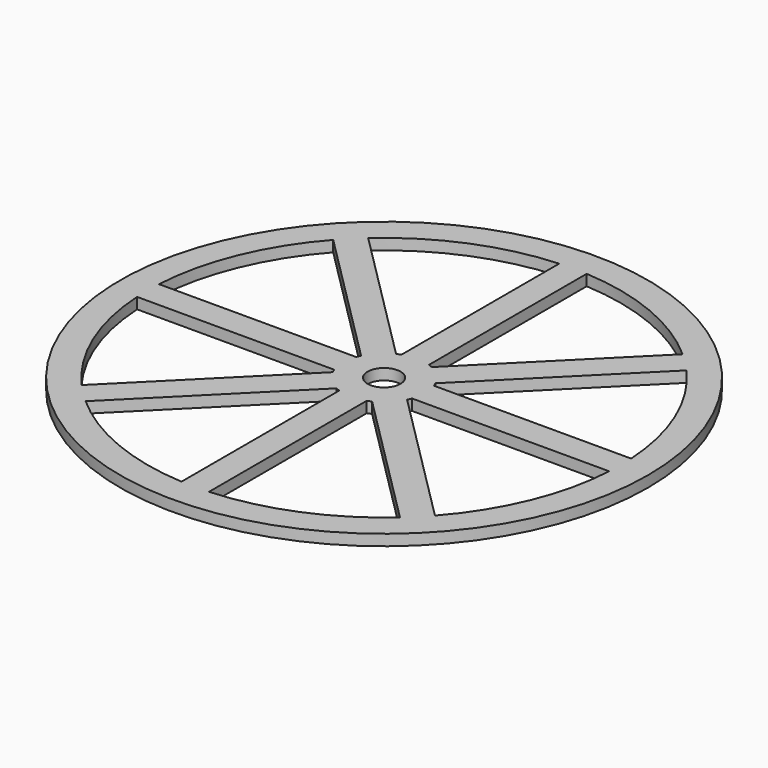
from build123d import *

# Parameters (mm, degrees)
F0_R     = 48
F0_R_2   = 3
F1_DEPTH = 2


with BuildPart() as f1:
    # F0 (on Top) → F1 (new body)
    with BuildSketch(Plane.XY):
        Circle(F0_R)
        with BuildLine():
            Line((-28.586393, -32.121926), (-3.232233, -6.767767))
            ThreePointArc((-3.232233, -6.767767), (-2.870126, -6.929096), (-2.5, -7.071068))
            Line((-2.5, -7.071068), (-2.5, -42.927264))
            ThreePointArc((-2.5, -42.927264), (-16.455388, -39.72682), (-28.586393, -32.121926))
        make_face(mode=Mode.SUBTRACT)
        with BuildLine():
            ThreePointArc((-32.121926, -28.586393), (-39.72682, -16.455388), (-42.927264, -2.5))
            Line((-42.927264, -2.5), (-7.071068, -2.5))
            ThreePointArc((-7.071068, -2.5), (-6.929096, -2.870126), (-6.767767, -3.232233))
            Line((-6.767767, -3.232233), (-32.121926, -28.586393))
        make_face(mode=Mode.SUBTRACT)
        with BuildLine():
            Line((2.5, -42.927264), (2.5, -7.071068))
            ThreePointArc((2.5, -7.071068), (2.870126, -6.929096), (3.232233, -6.767767))
            Line((3.232233, -6.767767), (28.586393, -32.121926))
            ThreePointArc((28.586393, -32.121926), (16.455388, -39.72682), (2.5, -42.927264))
        make_face(mode=Mode.SUBTRACT)
        with BuildLine():
            Line((32.121926, -28.586393), (6.767767, -3.232233))
            ThreePointArc((6.767767, -3.232233), (6.929096, -2.870126), (7.071068, -2.5))
            Line((7.071068, -2.5), (42.927264, -2.5))
            ThreePointArc((42.927264, -2.5), (39.72682, -16.455388), (32.121926, -28.586393))
        make_face(mode=Mode.SUBTRACT)
        with BuildLine():
            ThreePointArc((-42.927264, 2.5), (-39.72682, 16.455388), (-32.121926, 28.586393))
            Line((-32.121926, 28.586393), (-6.767767, 3.232233))
            ThreePointArc((-6.767767, 3.232233), (-6.929096, 2.870126), (-7.071068, 2.5))
            Line((-7.071068, 2.5), (-42.927264, 2.5))
        make_face(mode=Mode.SUBTRACT)
        with BuildLine():
            ThreePointArc((-28.586393, 32.121926), (-16.455388, 39.72682), (-2.5, 42.927264))
            Line((-2.5, 42.927264), (-2.5, 7.071068))
            ThreePointArc((-2.5, 7.071068), (-2.870126, 6.929096), (-3.232233, 6.767767))
            Line((-3.232233, 6.767767), (-28.586393, 32.121926))
        make_face(mode=Mode.SUBTRACT)
        Circle(F0_R_2, mode=Mode.SUBTRACT)
        with BuildLine():
            Line((42.927264, 2.5), (7.071068, 2.5))
            ThreePointArc((7.071068, 2.5), (6.929096, 2.870126), (6.767767, 3.232233))
            Line((6.767767, 3.232233), (32.121926, 28.586393))
            ThreePointArc((32.121926, 28.586393), (39.72682, 16.455388), (42.927264, 2.5))
        make_face(mode=Mode.SUBTRACT)
        with BuildLine():
            Line((2.5, 7.071068), (2.5, 42.927264))
            ThreePointArc((2.5, 42.927264), (16.455388, 39.72682), (28.586393, 32.121926))
            Line((28.586393, 32.121926), (3.232233, 6.767767))
            ThreePointArc((3.232233, 6.767767), (2.870126, 6.929096), (2.5, 7.071068))
        make_face(mode=Mode.SUBTRACT)
    extrude(amount=F1_DEPTH)


solid = f1.part
